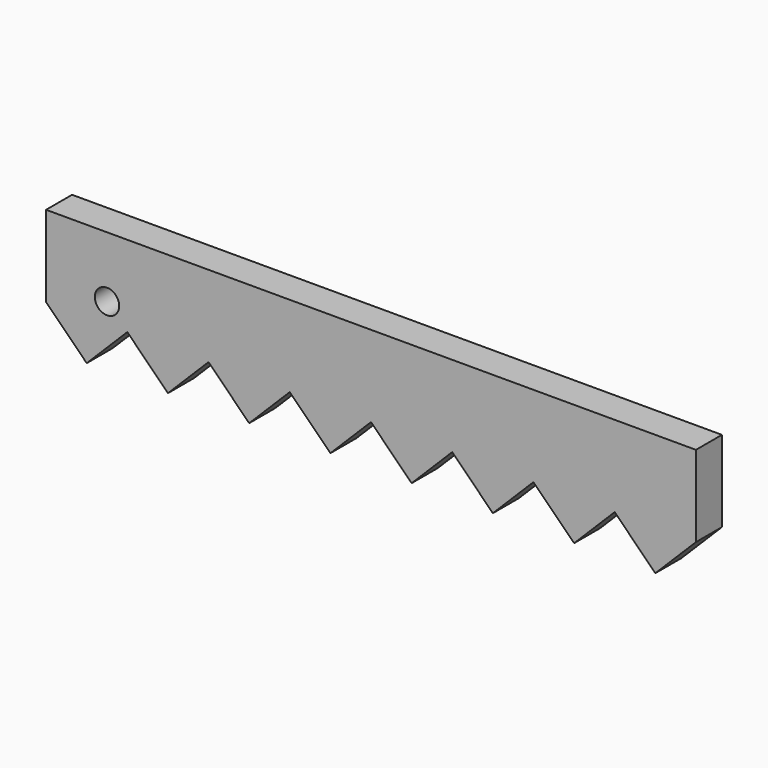
from build123d import *

# Parameters (mm, degrees)
F0_R     = 1.5
F1_DEPTH = 4


with BuildPart() as f1:
    # F0 (on Front) → F1 (new body)
    with BuildSketch(Plane.XZ):
        Polygon((80, 15), (0, 15), (0, 5), (5, 0), (10, 5), (15, 0), (20, 5), (25, 0), (30, 5), (35, 0), (40, 5), (45, 0), (50, 5), (55, 0), (60, 5), (65, 0), (70, 5), (75, 0), (80, 5), align=None)
        with Locations((7.5, 7.5)):
            Circle(F0_R, mode=Mode.SUBTRACT)
    extrude(amount=F1_DEPTH)


solid = f1.part
